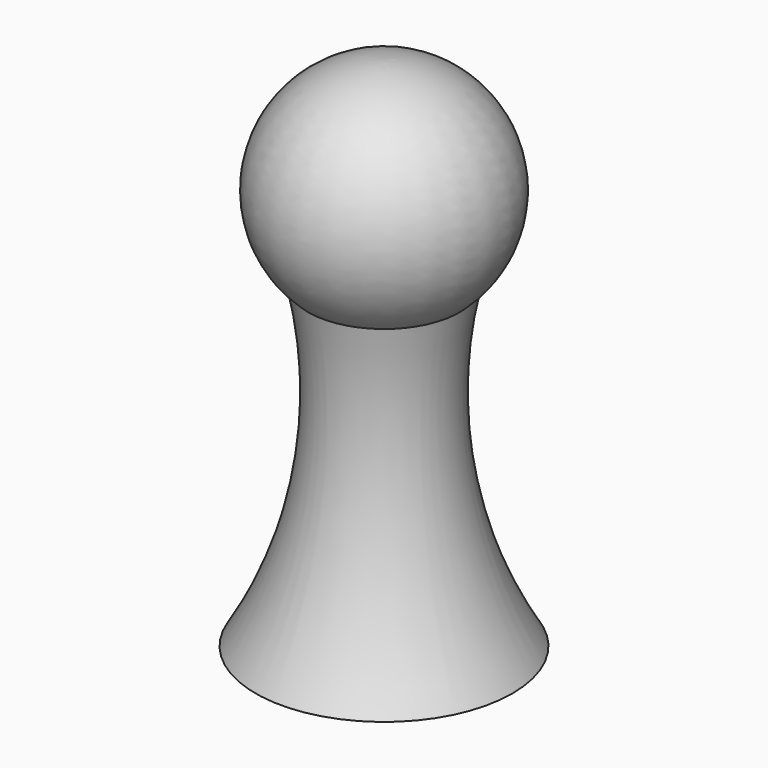
from build123d import *


with BuildPart() as f1:
    # F0 (on Front) → F1 (revolve)
    with BuildSketch(Plane.XZ):
        with BuildLine():
            Line((0, 0), (0, 32))
            ThreePointArc((0, 32), (-6.524852, 27.535015), (-4.725886, 19.836086))
            ThreePointArc((-4.725886, 19.836086), (-4.434737, 9.599776), (-8, 0))
            Line((-8, 0), (0, 0))
        make_face()
    revolve(axis=Axis((0, 0, 16), (0, 0, 1)))


solid = f1.part
